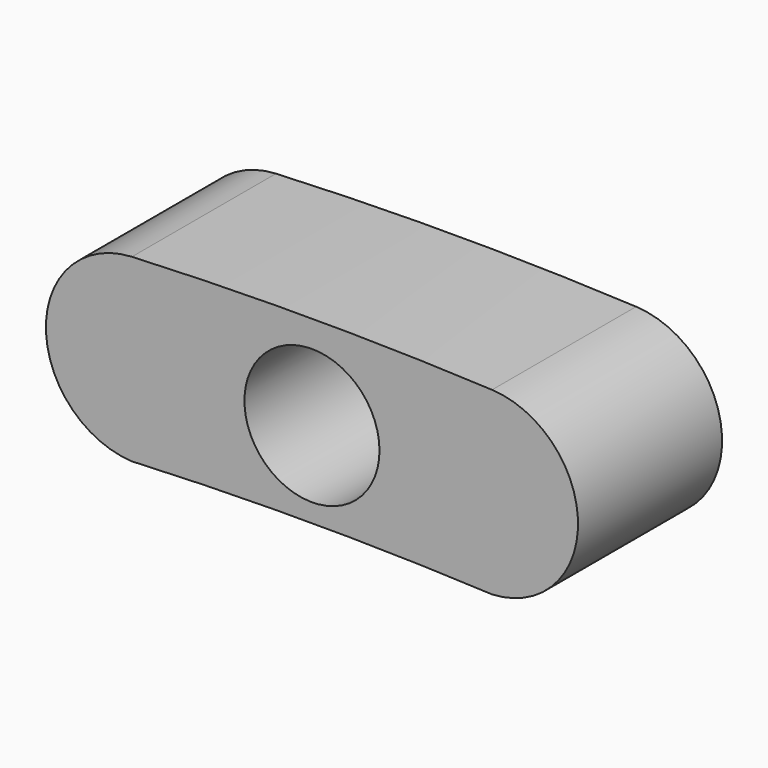
from build123d import *

# Parameters (mm, degrees)
F0_R     = 2.38125
F1_DEPTH = 6.35


with BuildPart() as f1:
    # F0 (on Front) → F1 (new body)
    with BuildSketch(Plane.XZ):
        with BuildLine():
            ThreePointArc((-6.35, 0), (0, 0.146256), (6.35, 0))
            ThreePointArc((6.35, 0), (9.382037, 3.175), (6.35, 6.35))
            ThreePointArc((6.35, 6.35), (0, 6.496256), (-6.35, 6.35))
            ThreePointArc((-6.35, 6.35), (-9.382037, 3.175), (-6.35, 0))
        make_face()
        with Locations((0, 3.175)):
            Circle(F0_R, mode=Mode.SUBTRACT)
    extrude(amount=F1_DEPTH)


solid = f1.part
